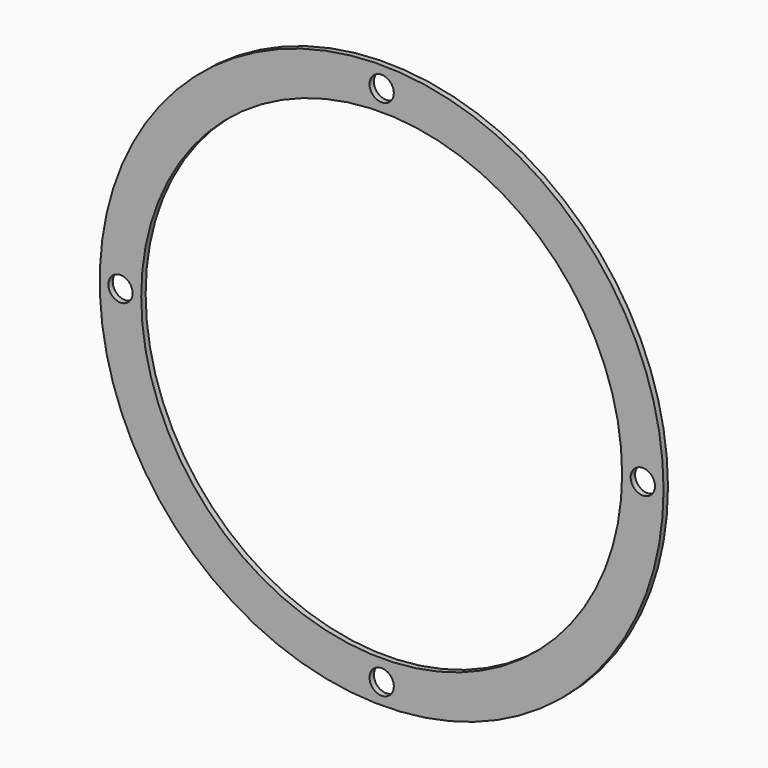
from build123d import *

# Parameters (mm, degrees)
F0_R     = 51
F0_R_2   = 43.5
F1_DEPTH = 1
F2_D     = 4.4
F2_DEPTH = 2.5
F2_TIP   = 1.3218933619


with BuildPart() as f1:
    # F0 (on Front) → F1 (new body)
    with BuildSketch(Plane.XZ):
        Circle(F0_R)
        Circle(F0_R_2, mode=Mode.SUBTRACT)
    extrude(amount=F1_DEPTH)

    # F2
    with Locations(Plane(origin=(0, 0, 0), x_dir=(1, 0, 0), z_dir=(0, 1, 0))):
        with Locations((0, -47.25), (-47.25, 0), (0, 47.25), (47.25, 0)):
            Hole(F2_D / 2, depth=F2_DEPTH)
            with Locations((0, 0, -(F2_DEPTH + F2_TIP / 2))):  # 118° drill point
                Cone(0, F2_D / 2, F2_TIP, mode=Mode.SUBTRACT)


solid = f1.part
